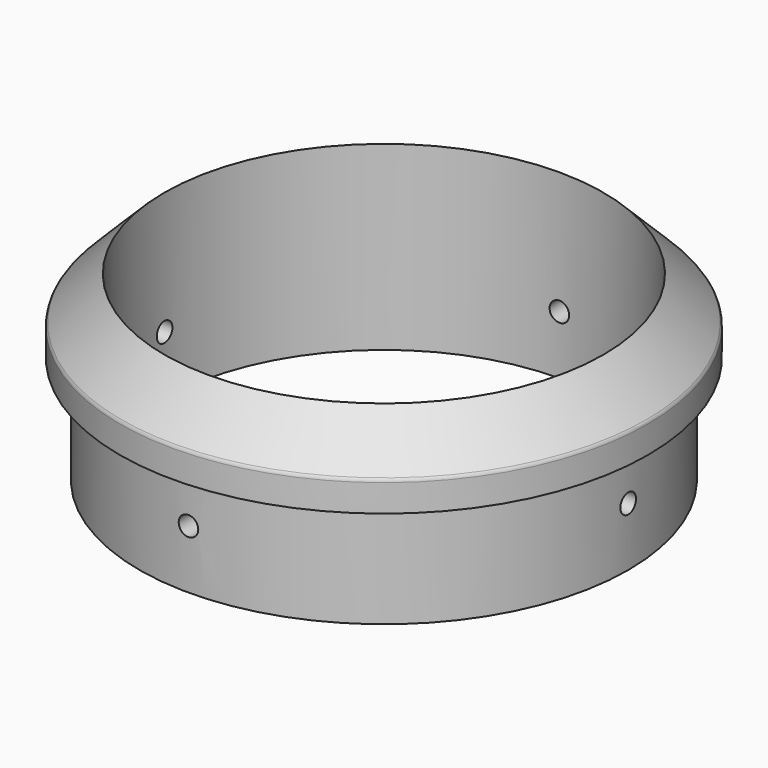
from build123d import *

# Parameters (mm, degrees)
F0_R           = 27
F1_DEPTH       = 8
F2_SIZE        = 5
F3_R           = 0.5
F4_R           = 25
F5_DEPTH       = 11
F6_R           = 22.45
F7_DEPTH       = 19.001
F8_R           = 1
F9_DEPTH       = 27.0010008385
F9_DEPTH_BACK  = 27.0010008385
F10_R          = 1
F11_DEPTH      = 27.0010001
F11_DEPTH_BACK = 27.0010001


with BuildPart() as f1:
    # F0 (on Top) → F1 (new body)
    with BuildSketch(Plane.XY):
        Circle(F0_R)
    extrude(amount=F1_DEPTH)

    # F2
    f2_edges = [f1.edges().sort_by_distance(p)[0] for p in [
        (-27, 0, 8),
    ]]
    chamfer(f2_edges, length=F2_SIZE)

    # F3
    f3_edges = [f1.edges().sort_by_distance(p)[0] for p in [
        (-22, 0, 8),
        (-27, 0, 3),
    ]]
    fillet(f3_edges, radius=F3_R)

    # F4 (on face) → F5 (join)
    with BuildSketch(Plane(origin=(0, 0, 0), x_dir=(1, 0, 0), z_dir=(0, 0, -1))):
        Circle(F4_R)
    extrude(amount=F5_DEPTH)

    # F6 (on face) → F7 (cut, through all)
    with BuildSketch(Plane.XY.offset(8)):
        Circle(F6_R)
    extrude(amount=-F7_DEPTH, mode=Mode.SUBTRACT)

    # F8 (on Front) → F9 (cut, two sides)
    with BuildSketch(Plane.XZ) as f9_sk:
        with Locations((0, -5)):
            Circle(F8_R)
    extrude(amount=-F9_DEPTH, mode=Mode.SUBTRACT)
    extrude(f9_sk.sketch, amount=F9_DEPTH_BACK, mode=Mode.SUBTRACT)

    # F10 (on Right) → F11 (cut, two sides)
    with BuildSketch(Plane.YZ) as f11_sk:
        with Locations((0, -5)):
            Circle(F10_R)
    extrude(amount=F11_DEPTH, mode=Mode.SUBTRACT)
    extrude(f11_sk.sketch, amount=-F11_DEPTH_BACK, mode=Mode.SUBTRACT)


solid = f1.part
